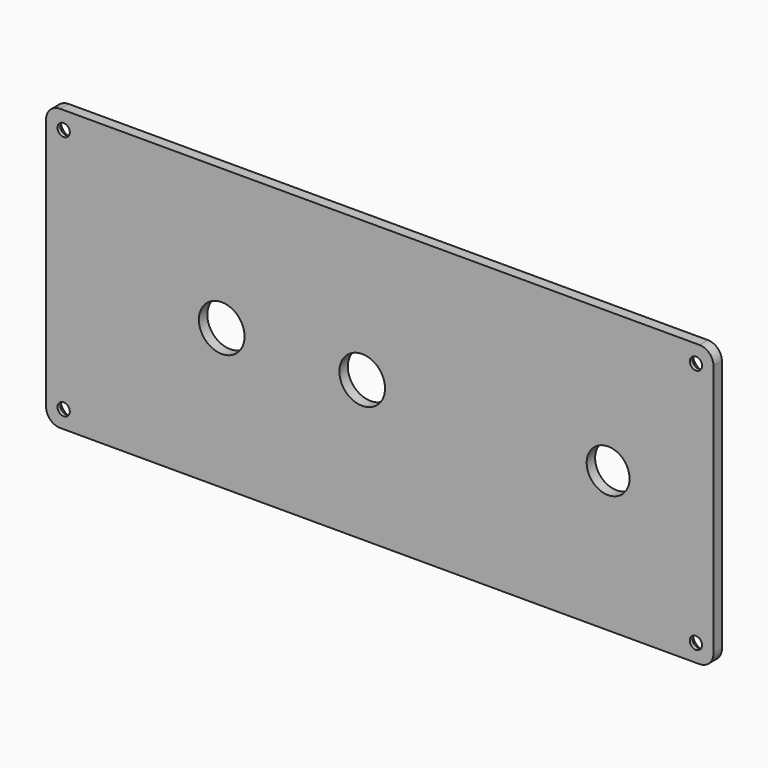
from build123d import *

# Parameters (mm, degrees)
F0_R           = 6.5
F0_R_2         = 6.1
F1_DEPTH       = 3
F3_D           = 3.5
F3_CBORE_D     = 6.5
F3_CBORE_DEPTH = 2


with BuildPart() as f1:
    # F0 (on Front) → F1 (new body)
    with BuildSketch(Plane.XZ):
        with BuildLine():
            Line((-91, -40), (91, -40))
            ThreePointArc((91, -40), (93.828427, -38.828427), (95, -36))
            Line((95, -36), (95, 36))
            ThreePointArc((95, 36), (93.828427, 38.828427), (91, 40))
            Line((91, 40), (-91, 40))
            ThreePointArc((-91, 40), (-93.828427, 38.828427), (-95, 36))
            Line((-95, 36), (-95, -36))
            ThreePointArc((-95, -36), (-93.828427, -38.828427), (-91, -40))
        make_face()
        with Locations((-45, 0)):
            Circle(F0_R, mode=Mode.SUBTRACT)
        with Locations((-5, 0)):
            Circle(F0_R, mode=Mode.SUBTRACT)
        with Locations((65, 0)):
            Circle(F0_R_2, mode=Mode.SUBTRACT)
    extrude(amount=-F1_DEPTH)

    # F3 (through all)
    with Locations(Plane(origin=(0, 3, 0), x_dir=(-1, 0, 0), z_dir=(0, 1, 0))):
        with Locations((-90, 35), (90, 35), (90, -35), (-90, -35)):
            CounterBoreHole(F3_D / 2, F3_CBORE_D / 2, F3_CBORE_DEPTH)


solid = f1.part
